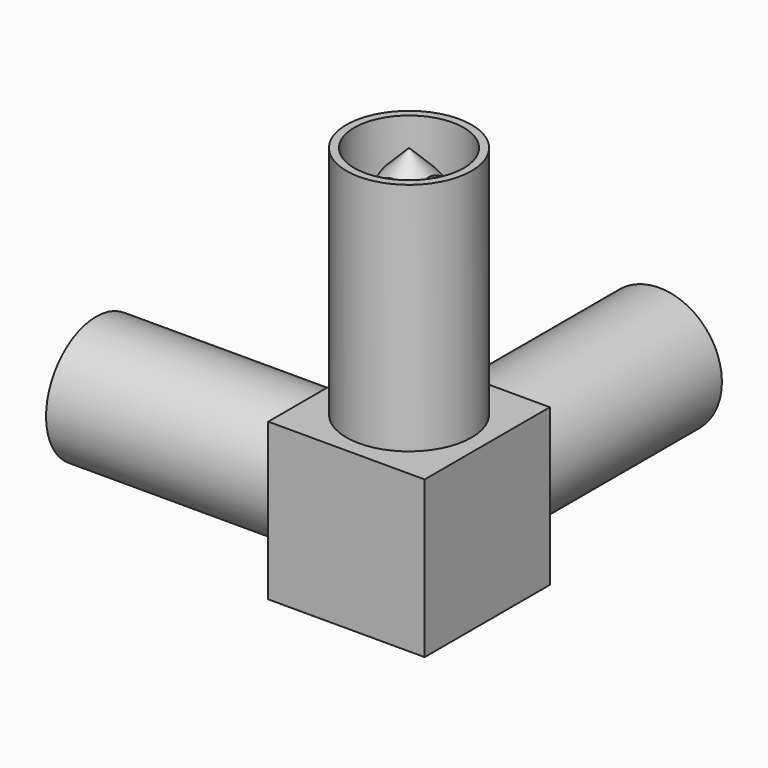
from build123d import *

# Parameters (mm, degrees)
F0_W          = 20
F0_H          = 20
F1_DEPTH      = 10
F1_DEPTH_BACK = 10
F2_R          = 8
F2_R_2        = 7
F3_DEPTH      = 30
F4_W          = 5
F4_H          = 5
F5_DEPTH      = 30
F9_COUNT      = 2
F9_ANGLE      = 90
F10_COUNT     = 2
F10_ANGLE     = 90


with BuildPart() as f1:
    # F0 (on Top) → F1 (new body, two sides)
    with BuildSketch(Plane.XY) as f1_sk:
        Rectangle(F0_W, F0_H)
    extrude(amount=-F1_DEPTH)
    extrude(f1_sk.sketch, amount=F1_DEPTH_BACK)

    # F2 (on face) → F3 (join)
    with BuildSketch(Plane.XY.offset(10)):
        Circle(F2_R)
        Circle(F2_R_2, mode=Mode.SUBTRACT)
    extrude(amount=F3_DEPTH)

    # F4 (on face) → F5 (join)
    with BuildSketch(Plane.XY.offset(10)):
        Rectangle(F4_W, F4_H)
    extrude(amount=F5_DEPTH)

    # F6 (on Front) → F7 (revolve, cut)
    with BuildSketch(Plane.XZ):
        Polygon((0, 39.9759672582), (0.0436493601, 39.9563506399), (6.35, 33.65), (6.35, 40), (0, 40), align=None)
    revolve(axis=Axis((0, 0, 38.1132610887), (0, 0, -1)), mode=Mode.SUBTRACT)

    # F9: F1 ×2 about axis
    f9_axis = Axis((7.9106530175, 0, 0), (-1, 0, 0))


with BuildPart() as f1_1:
    add(f1.part)
    for i in range(1, F9_COUNT):
        add(f1.part.rotate(f9_axis, i * F9_ANGLE / (F9_COUNT - 1)))

    # F10: F1 ×2 about axis
    f10_axis = Axis((0, 10, 0), (0, -1, 0))


with BuildPart() as f1_2:
    add(f1_1.part)
    for i in range(1, F10_COUNT):
        add(f1_1.part.rotate(f10_axis, i * F10_ANGLE / (F10_COUNT - 1)))


solid = f1_2.part
